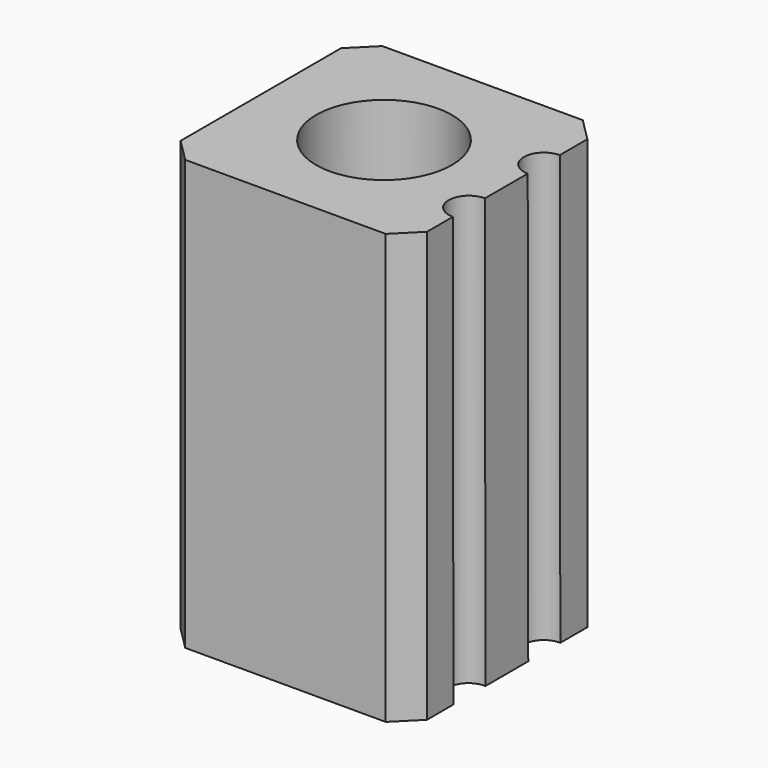
from build123d import *

# Parameters (mm, degrees)
SKETCH031_W     = 10.922
SKETCH031_H     = 19.05
PAD002_DEPTH    = 5.461
SKETCH033_R     = 3.0099
POCKET003_DEPTH = 7.239
SKETCH035_R     = 1.651
POCKET004_DEPTH = 19.051
SKETCH036_R     = 2.7305
POCKET005_DEPTH = 7.62
SKETCH039_R     = 0.889
POCKET006_DEPTH = 19.082657
CHAMFER_SIZE    = 1.016


with BuildPart() as part:
    # Sketch031 → Pad002 (new body, symmetric)
    with BuildSketch(Plane.YZ):
        with Locations((-9.779, 28.194)):
            Rectangle(SKETCH031_W, SKETCH031_H)
    extrude(amount=PAD002_DEPTH, both=True)

    # Sketch033 (on Face1 of Pad002) → Pocket003 (cut)
    with BuildSketch(Plane(origin=(0, 0, 37.719), x_dir=(0, -1, 0), z_dir=(0, 0, 1))):
        with Locations((9.779, 0)):
            Circle(SKETCH033_R)
    extrude(amount=-POCKET003_DEPTH, mode=Mode.SUBTRACT)

    # Sketch035 (on Face1 of Pad002) → Pocket004 (cut, through all)
    with BuildSketch(Plane(origin=(0, 0, 37.719), x_dir=(0, -1, 0), z_dir=(0, 0, 1))):
        with Locations((9.779, 0)):
            Circle(SKETCH035_R)
    extrude(amount=-POCKET004_DEPTH, mode=Mode.SUBTRACT)

    # Sketch036 (on Face7 of Pocket004) → Pocket005 (cut)
    with BuildSketch(Plane.YX.offset(-18.669)):
        with Locations((-9.779, 0)):
            Circle(SKETCH036_R)
    extrude(amount=-POCKET005_DEPTH, mode=Mode.SUBTRACT)

    # Sketch039 → Pocket006 (cut, through all)
    with BuildSketch(Plane(origin=(0, 0, 18.669), x_dir=(0.003059, 0.999994, 0.001528), z_dir=(-0.001528, 0.001533, -0.999998))):
        with Locations((-11.853333, 5.461)):
            Circle(SKETCH039_R)
        with Locations((-7.704667, 5.461)):
            Circle(SKETCH039_R)
    extrude(amount=-POCKET006_DEPTH, mode=Mode.SUBTRACT)

    # Chamfer
    chamfer_edges = [part.edges().sort_by_distance(p)[0] for p in [
        (-5.461, -4.318, 28.194),
        (-5.461, -15.24, 28.194),
        (5.461, -15.24, 28.194),
        (5.461, -4.318, 28.194),
    ]]
    chamfer(chamfer_edges, length=CHAMFER_SIZE)


with BuildPart() as part_1:
    # Body001 placement: moved
    add(part.part.moved(Location((0, -3, 0))))


solid = part_1.part
